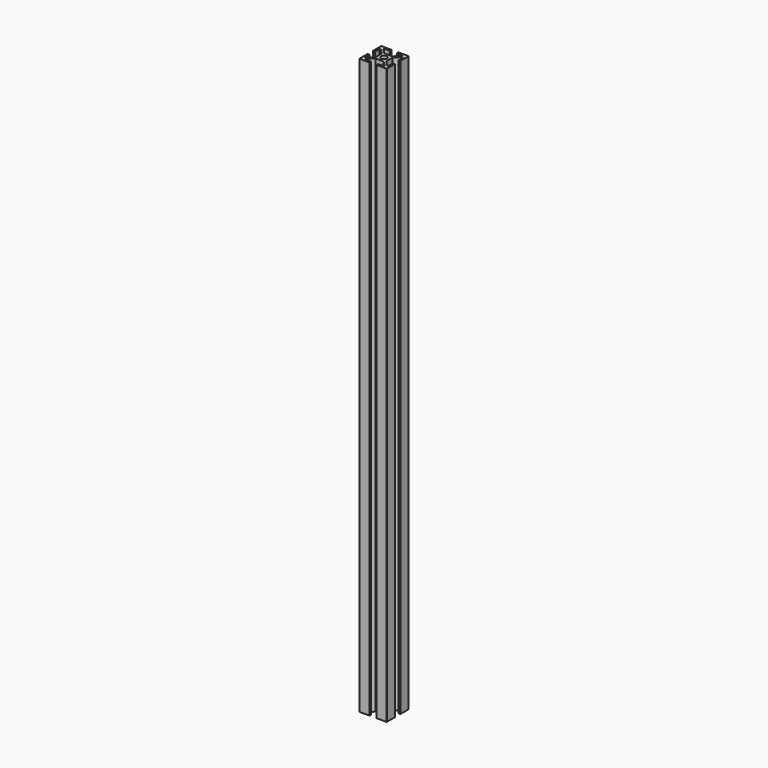
from build123d import *

# Parameters (mm, degrees)
F0_R     = 2.15
F1_DEPTH = 420


with BuildPart() as f1:
    # F0 (on Top) → F1 (new body)
    with BuildSketch(Plane.XY):
        with BuildLine():
            ThreePointArc((20, -0.2), (19.941421, -0.058579), (19.8, 0))
            Line((19.8, 0), (12.7, 0))
            ThreePointArc((12.7, 0), (12.558579, -0.058579), (12.5, -0.2))
            Line((12.5, -0.2), (12.5, -1.3))
            ThreePointArc((12.5, -1.3), (12.558579, -1.441421), (12.7, -1.5))
            Line((12.7, -1.5), (16.55, -1.5))
            ThreePointArc((16.55, -1.5), (16.691421, -1.558579), (16.75, -1.7))
            Line((16.75, -1.7), (16.75, -2.106497))
            ThreePointArc((16.75, -2.106497), (16.734776, -2.183034), (16.691421, -2.247918))
            Line((16.691421, -2.247918), (12.93934, -6))
            Line((12.93934, -6), (7.06066, -6))
            Line((7.06066, -6), (3.308579, -2.247918))
            ThreePointArc((3.308579, -2.247918), (3.265224, -2.183034), (3.25, -2.106497))
            Line((3.25, -2.106497), (3.25, -1.7))
            ThreePointArc((3.25, -1.7), (3.308579, -1.558579), (3.45, -1.5))
            Line((3.45, -1.5), (7.3, -1.5))
            ThreePointArc((7.3, -1.5), (7.441421, -1.441421), (7.5, -1.3))
            Line((7.5, -1.3), (7.5, -0.2))
            ThreePointArc((7.5, -0.2), (7.441421, -0.058579), (7.3, 0))
            Line((7.3, 0), (0.2, 0))
            ThreePointArc((0.2, 0), (0.058579, -0.058579), (0, -0.2))
            Line((0, -0.2), (0, -7.3))
            ThreePointArc((0, -7.3), (0.058579, -7.441421), (0.2, -7.5))
            Line((0.2, -7.5), (1.3, -7.5))
            ThreePointArc((1.3, -7.5), (1.441421, -7.441421), (1.5, -7.3))
            Line((1.5, -7.3), (1.5, -3.45))
            ThreePointArc((1.5, -3.45), (1.558579, -3.308579), (1.7, -3.25))
            Line((1.7, -3.25), (2.106497, -3.25))
            ThreePointArc((2.106497, -3.25), (2.183034, -3.265224), (2.247918, -3.308579))
            Line((2.247918, -3.308579), (6, -7.06066))
            Line((6, -7.06066), (6, -12.93934))
            Line((6, -12.93934), (2.247918, -16.691421))
            ThreePointArc((2.247918, -16.691421), (2.183034, -16.734776), (2.106497, -16.75))
            Line((2.106497, -16.75), (1.7, -16.75))
            ThreePointArc((1.7, -16.75), (1.558579, -16.691421), (1.5, -16.55))
            Line((1.5, -16.55), (1.5, -12.7))
            ThreePointArc((1.5, -12.7), (1.441421, -12.558579), (1.3, -12.5))
            Line((1.3, -12.5), (0.2, -12.5))
            ThreePointArc((0.2, -12.5), (0.058579, -12.558579), (0, -12.7))
            Line((0, -12.7), (0, -19.8))
            ThreePointArc((0, -19.8), (0.058579, -19.941421), (0.2, -20))
            Line((0.2, -20), (7.3, -20))
            ThreePointArc((7.3, -20), (7.441421, -19.941421), (7.5, -19.8))
            Line((7.5, -19.8), (7.5, -18.7))
            ThreePointArc((7.5, -18.7), (7.441421, -18.558579), (7.3, -18.5))
            Line((7.3, -18.5), (3.45, -18.5))
            ThreePointArc((3.45, -18.5), (3.308579, -18.441421), (3.25, -18.3))
            Line((3.25, -18.3), (3.25, -17.893503))
            ThreePointArc((3.25, -17.893503), (3.265224, -17.816966), (3.308579, -17.752082))
            Line((3.308579, -17.752082), (7.06066, -14))
            Line((7.06066, -14), (12.93934, -14))
            Line((12.93934, -14), (16.691421, -17.752082))
            ThreePointArc((16.691421, -17.752082), (16.734776, -17.816966), (16.75, -17.893503))
            Line((16.75, -17.893503), (16.75, -18.3))
            ThreePointArc((16.75, -18.3), (16.691421, -18.441421), (16.55, -18.5))
            Line((16.55, -18.5), (12.7, -18.5))
            ThreePointArc((12.7, -18.5), (12.558579, -18.558579), (12.5, -18.7))
            Line((12.5, -18.7), (12.5, -19.8))
            ThreePointArc((12.5, -19.8), (12.558579, -19.941421), (12.7, -20))
            Line((12.7, -20), (19.8, -20))
            ThreePointArc((19.8, -20), (19.941421, -19.941421), (20, -19.8))
            Line((20, -19.8), (20, -12.7))
            ThreePointArc((20, -12.7), (19.941421, -12.558579), (19.8, -12.5))
            Line((19.8, -12.5), (18.7, -12.5))
            ThreePointArc((18.7, -12.5), (18.558579, -12.558579), (18.5, -12.7))
            Line((18.5, -12.7), (18.5, -16.55))
            ThreePointArc((18.5, -16.55), (18.441421, -16.691421), (18.3, -16.75))
            Line((18.3, -16.75), (17.893503, -16.75))
            ThreePointArc((17.893503, -16.75), (17.816966, -16.734776), (17.752082, -16.691421))
            Line((17.752082, -16.691421), (14, -12.93934))
            Line((14, -12.93934), (14, -7.06066))
            Line((14, -7.06066), (17.752082, -3.308579))
            ThreePointArc((17.752082, -3.308579), (17.816966, -3.265224), (17.893503, -3.25))
            Line((17.893503, -3.25), (18.3, -3.25))
            ThreePointArc((18.3, -3.25), (18.441421, -3.308579), (18.5, -3.45))
            Line((18.5, -3.45), (18.5, -7.3))
            ThreePointArc((18.5, -7.3), (18.558579, -7.441421), (18.7, -7.5))
            Line((18.7, -7.5), (19.8, -7.5))
            ThreePointArc((19.8, -7.5), (19.941421, -7.441421), (20, -7.3))
            Line((20, -7.3), (20, -0.2))
        make_face()
        with Locations((10, -10)):
            Circle(F0_R, mode=Mode.SUBTRACT)
    extrude(amount=F1_DEPTH)


solid = f1.part
